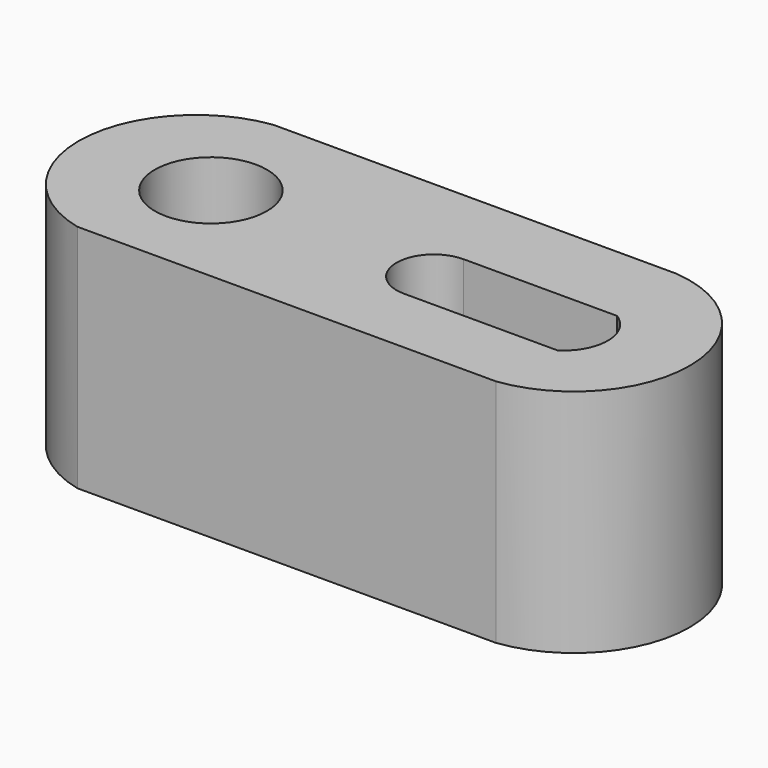
from build123d import *

# Parameters (mm, degrees)
F0_W     = 101.6
F0_H     = 38.1
F1_DEPTH = 38.1
F3_DEPTH = 38.1
F4_R     = 9.279541
F5_DEPTH = 38.1
F7_DEPTH = 101.6


with BuildPart() as f1:
    # F0 (on Front) → F1 (new body)
    with BuildSketch(Plane.XZ):
        with Locations((50.8, 19.05)):
            Rectangle(F0_W, F0_H)
    extrude(amount=F1_DEPTH)

    # F2 (on face) → F3 (cut)
    with BuildSketch(Plane.XY.offset(38.1)):
        with BuildLine():
            ThreePointArc((83.914571, 0), (101.325868, -18.794907), (84.482022, -38.1))
            Line((84.482022, -38.1), (101.6, -38.1))
            Line((101.6, -38.1), (101.6, 0))
            Line((101.6, 0), (83.914571, 0))
        make_face()
        with BuildLine():
            Line((0, -38.1), (15.216109, -38.1))
            ThreePointArc((15.216109, -38.1), (0.393633, -18.225575), (17.202171, 0))
            Line((17.202171, 0), (0, 0))
            Line((0, 0), (0, -38.1))
        make_face()
    extrude(amount=-F3_DEPTH, mode=Mode.SUBTRACT)

    # F4 (on face) → F5 (cut)
    with BuildSketch(Plane.XY.offset(38.1)):
        with Locations((22.343248, -19.372153)):
            Circle(F4_R)
    extrude(amount=-F5_DEPTH, mode=Mode.SUBTRACT)

    # F6 (on face) → F7 (cut)
    with BuildSketch(Plane.XY.offset(38.1)):
        with BuildLine():
            Line((85.293495, -14.016386), (59.893495, -14.016386))
            ThreePointArc((59.893495, -14.016386), (53.719888, -20.189993), (59.893495, -26.363599))
            Line((59.893495, -26.363599), (85.293495, -26.363599))
            ThreePointArc((85.293495, -26.363599), (88.674518, -20.189993), (85.293495, -14.016386))
        make_face()
    extrude(amount=-F7_DEPTH, mode=Mode.SUBTRACT)


solid = f1.part
